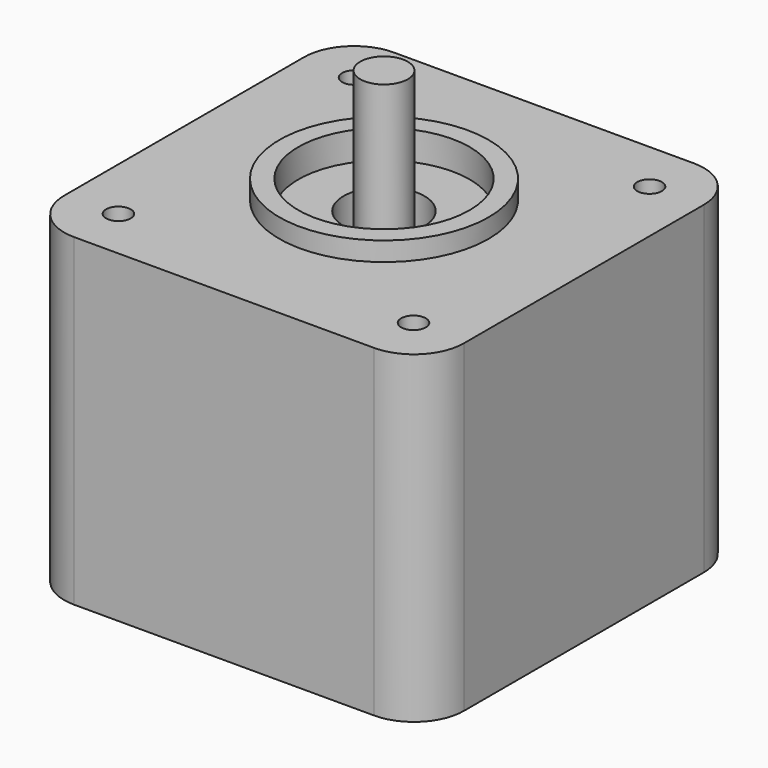
from build123d import *

# Parameters (mm, degrees)
PAD007_DEPTH    = 4
SKETCH010_W     = 16
SKETCH010_H     = 8
PAD006_DEPTH    = 1
SKETCH008_R     = 2.5
PAD004_DEPTH    = 19
SKETCH006_R     = 11
PAD003_DEPTH    = 2
SKETCH007_R     = 9
POCKET003_DEPTH = 2
PAD002_DEPTH    = 7.5
SKETCH003_R     = 9
POCKET_DEPTH    = 1
SKETCH004_R     = 4.25
POCKET001_DEPTH = 6
SKETCH005_R     = 1.295
POCKET002_DEPTH = 4
PAD001_DEPTH    = 17
PAD_DEPTH       = 9.5


with BuildPart() as pad007:
    # Sketch011 → Pad007 (new body)
    with BuildSketch(Plane.YZ.offset(-22)):
        with BuildLine():
            Line((2.5, 7.5), (-2.5, 7.5))
            ThreePointArc((-2.5, 7.5), (-2.853553, 7.353553), (-3, 7))
            Line((-3, 7), (-3, 6.5))
            ThreePointArc((-3, 6.5), (-2.853553, 6.146447), (-2.5, 6))
            Line((-2.5, 6), (2.5, 6))
            ThreePointArc((2.5, 6), (2.853553, 6.146447), (3, 6.5))
            Line((3, 6.5), (3, 7))
            ThreePointArc((3, 7), (2.853553, 7.353553), (2.5, 7.5))
        make_face()
    extrude(amount=-PAD007_DEPTH)


with BuildPart() as pad006:
    # Sketch010 → Pad006 (new body)
    with BuildSketch(Plane.YZ.offset(-21)):
        with Locations((0, 5.5)):
            Rectangle(SKETCH010_W, SKETCH010_H)
    extrude(amount=-PAD006_DEPTH)


with BuildPart() as pad004:
    # Sketch008 → Pad004 (new body)
    with BuildSketch(Plane.XY.offset(27)):
        Circle(SKETCH008_R)
    extrude(amount=PAD004_DEPTH)


with BuildPart() as fusion001:
    # Sketch006 → Pad003 (new body)
    with BuildSketch(Plane.XY.offset(34)):
        Circle(SKETCH006_R)
    extrude(amount=PAD003_DEPTH)

    # Sketch007 → Pocket003 (cut)
    with BuildSketch(Plane.XY.offset(36)):
        Circle(SKETCH007_R)
    extrude(amount=-POCKET003_DEPTH, mode=Mode.SUBTRACT)

    # Fusion001: union Pad004
    add(pad004.part)


with BuildPart() as f_6mm:
    # Sketch002 → Pad002 (new body)
    with BuildSketch(Plane.XY.offset(26.5)):
        with BuildLine():
            Line((-15.75, 21), (15.75, 21))
            ThreePointArc((21, 15.75), (19.462311, 19.462311), (15.75, 21))
            Line((21, 15.75), (21, -15.75))
            ThreePointArc((15.75, -21), (19.462311, -19.462311), (21, -15.75))
            Line((15.75, -21), (-15.75, -21))
            ThreePointArc((-21, -15.75), (-19.462311, -19.462311), (-15.75, -21))
            Line((-21, -15.75), (-21, 15.75))
            ThreePointArc((-15.75, 21), (-19.462311, 19.462311), (-21, 15.75))
        make_face()
    extrude(amount=PAD002_DEPTH)

    # Sketch003 → Pocket (cut)
    with BuildSketch(Plane.XY.offset(34)):
        Circle(SKETCH003_R)
    extrude(amount=-POCKET_DEPTH, mode=Mode.SUBTRACT)

    # Sketch004 → Pocket001 (cut)
    with BuildSketch(Plane.XY.offset(33)):
        Circle(SKETCH004_R)
    extrude(amount=-POCKET001_DEPTH, mode=Mode.SUBTRACT)


with BuildPart() as m3:
    add(f_6mm.part)

    # Sketch005 → Pocket002 (cut)
    with BuildSketch(Plane.XY.offset(34)):
        with Locations((15.5, 15.5)):
            Circle(SKETCH005_R)
        with Locations((-15.5, 15.5)):
            Circle(SKETCH005_R)
        with Locations((-15.5, -15.5)):
            Circle(SKETCH005_R)
        with Locations((15.5, -15.5)):
            Circle(SKETCH005_R)
    extrude(amount=-POCKET002_DEPTH, mode=Mode.SUBTRACT)


with BuildPart() as fusion002:
    add(f_6mm.part)

    add(m3.part, mode=Mode.INTERSECT)

    # Fusion002: union Fusion001
    add(fusion001.part)


with BuildPart() as pad001:
    # Sketch001 → Pad001 (new body)
    with BuildSketch(Plane.XY.offset(9.5)):
        with BuildLine():
            Line((-15.75, 21), (15.75, 21))
            ThreePointArc((21, 15.75), (19.462311, 19.462311), (15.75, 21))
            Line((21, 15.75), (21, -15.75))
            ThreePointArc((15.75, -21), (19.462311, -19.462311), (21, -15.75))
            Line((15.75, -21), (-15.75, -21))
            ThreePointArc((-21, -15.75), (-19.462311, -19.462311), (-15.75, -21))
            Line((-21, -15.75), (-21, 15.75))
            ThreePointArc((-15.75, 21), (-19.462311, 19.462311), (-21, 15.75))
        make_face()
    extrude(amount=PAD001_DEPTH)


with BuildPart() as fusion005:
    # Sketch → Pad (new body)
    with BuildSketch(Plane.XY):
        with BuildLine():
            Line((-15.75, 21), (15.75, 21))
            ThreePointArc((21, 15.75), (19.462311, 19.462311), (15.75, 21))
            Line((21, 15.75), (21, -15.75))
            ThreePointArc((15.75, -21), (19.462311, -19.462311), (21, -15.75))
            Line((15.75, -21), (-15.75, -21))
            ThreePointArc((-21, -15.75), (-19.462311, -19.462311), (-15.75, -21))
            Line((-21, -15.75), (-21, 15.75))
            ThreePointArc((-15.75, 21), (-19.462311, 19.462311), (-21, 15.75))
        make_face()
    extrude(amount=PAD_DEPTH)

    # Fusion: union Pad001
    add(pad001.part)

    # Fusion003: union Fusion002
    add(fusion002.part)

    # Fusion004: union Pad006
    add(pad006.part)

    # Fusion005: union Pad007
    add(pad007.part)


solid = fusion005.part
